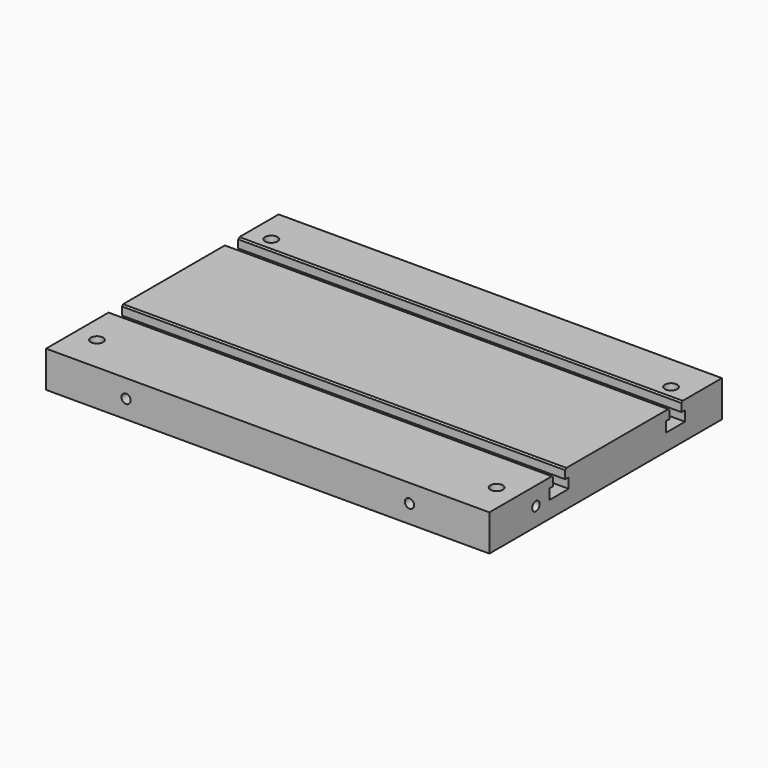
from build123d import *

# Parameters (mm, degrees)
F0_W            = 305
F0_H            = 200
F1_DEPTH        = 25
F3_D            = 8.5
F5_DEPTH        = 152.501
F5_DEPTH_BACK   = 152.501
F6_SIZE         = 1
F10_D           = 6.35
F10_DEPTH       = 42
F10_TIP         = 1.9077324654
F11_D           = 6.35
F11_DEPTH       = 57
F11_TIP         = 1.9077324654
F11_ON_F8_D     = 6.35
F11_ON_F8_DEPTH = 57
F11_ON_F8_TIP   = 1.9077324654


with BuildPart() as f1:
    # F0 (on Top) → F1 (new body)
    with BuildSketch(Plane.XY):
        Rectangle(F0_W, F0_H)
    extrude(amount=-F1_DEPTH)

    # F3 (through all)
    with Locations(Plane.XY):
        with Locations((-137.5, 75), (137.5, 75), (137.5, -75), (-137.5, -75)):
            Hole(F3_D / 2)

    # F4 (on Right) → F5 (cut, two sides)
    with BuildSketch(Plane.YZ) as f5_sk:
        Polygon((-34.75, 0), (-40, 0), (-45.25, 0), (-45.25, -6.5), (-48.25, -6.5), (-48.25, -13.5), (-40, -13.5), (-31.75, -13.5), (-31.75, -6.5), (-34.75, -6.5), align=None)
        Polygon((65.25, 0), (60, 0), (54.75, 0), (54.75, -6.5), (51.75, -6.5), (51.75, -13.5), (60, -13.5), (68.25, -13.5), (68.25, -6.5), (65.25, -6.5), align=None)
    extrude(amount=-F5_DEPTH, mode=Mode.SUBTRACT)
    extrude(f5_sk.sketch, amount=F5_DEPTH_BACK, mode=Mode.SUBTRACT)

    # F6
    f6_edges = [f1.edges().sort_by_distance(p)[0] for p in [
        (0, -34.75, 0),
        (0, -45.25, 0),
        (0, 65.25, 0),
        (0, 54.75, 0),
    ]]
    chamfer(f6_edges, length=F6_SIZE)

    # F10
    with Locations(Plane.XZ.offset(100)):
        with Locations((97.5, -12.5), (-97.5, -12.5)):
            Hole(F10_D / 2, depth=F10_DEPTH)
            with Locations((0, 0, -(F10_DEPTH + F10_TIP / 2))):  # 118° drill point
                Cone(0, F10_D / 2, F10_TIP, mode=Mode.SUBTRACT)

    # F11
    with Locations(Plane(origin=(-152.5, 0, 0), x_dir=(0, -1, 0), z_dir=(-1, 0, 0))):
        with Locations((60, -12.5)):
            Hole(F11_D / 2, depth=F11_DEPTH)
            with Locations((0, 0, -(F11_DEPTH + F11_TIP / 2))):  # 118° drill point
                Cone(0, F11_D / 2, F11_TIP, mode=Mode.SUBTRACT)

    # F11 on F8
    with Locations(Plane.YZ.offset(152.5)):
        with Locations((-60, -12.5)):
            Hole(F11_ON_F8_D / 2, depth=F11_ON_F8_DEPTH)
            with Locations((0, 0, -(F11_ON_F8_DEPTH + F11_ON_F8_TIP / 2))):  # 118° drill point
                Cone(0, F11_ON_F8_D / 2, F11_ON_F8_TIP, mode=Mode.SUBTRACT)


solid = f1.part
